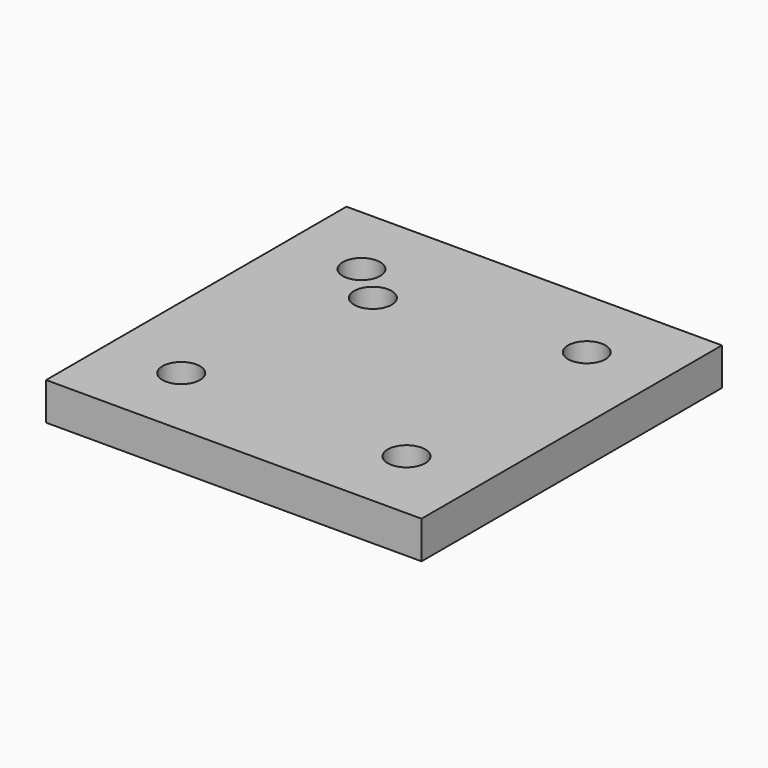
from build123d import *

# Parameters (mm, degrees)
F0_W     = 50
F0_H     = 50
F1_DEPTH = 5
F3_D     = 5
F5_D     = 5


with BuildPart() as f1:
    # F0 (on Top) → F1 (new body)
    with BuildSketch(Plane.XY):
        Rectangle(F0_W, F0_H)
    extrude(amount=F1_DEPTH)

    # F3 (through all)
    with Locations(Plane.XY.offset(5)):
        with Locations((-10.019323, 10.674792)):
            Hole(F3_D / 2)

    # F5 (through all)
    with Locations(Plane.XY.offset(5)):
        with Locations((-15, 15), (15, 15), (15, -15), (-15, -15)):
            Hole(F5_D / 2)


solid = f1.part
